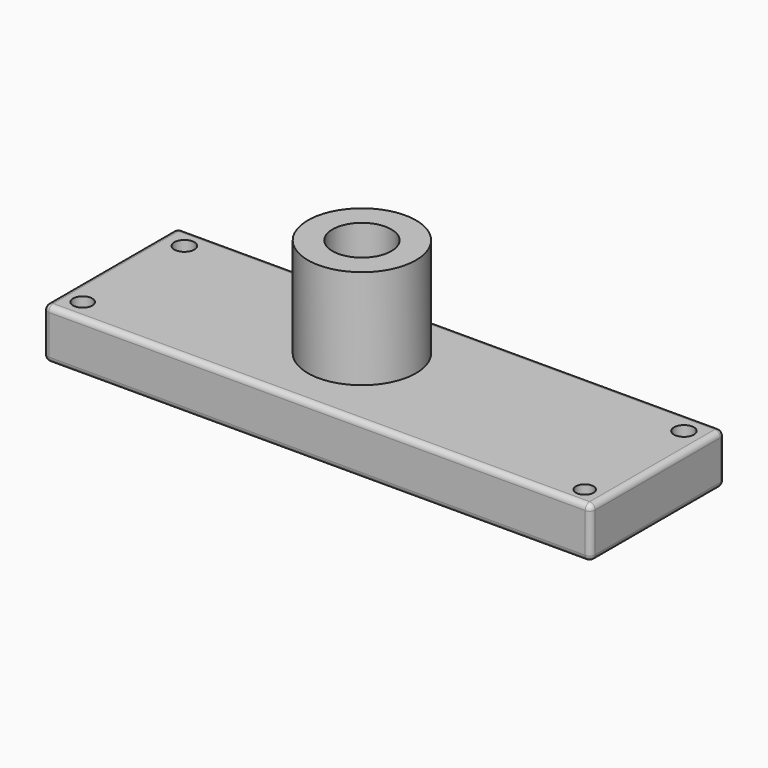
from build123d import *

# Parameters (mm, degrees)
F0_W     = 99.260524
F0_H     = 30.379737
F1_DEPTH = 9.144
F2_R     = 1.016
F3_R     = 1.597357
F3_R_2   = 1.808865
F3_R_3   = 1.82127
F3_R_4   = 1.741221
F4_DEPTH = 9.145
F3_R_5   = 9.801511
F3_R_6   = 5.336949
F5_DEPTH = 18.034


with BuildPart() as f1:
    # F0 (on Top) → F1 (new body)
    with BuildSketch(Plane.XY):
        with Locations((4.963025, -1.203157)):
            Rectangle(F0_W, F0_H)
        with Locations((4.963025, -1.203157)):
            Rectangle(F0_W, F0_H)
    extrude(amount=F1_DEPTH)

    # F2
    f2_edges = [f1.edges().sort_by_distance(p)[0] for p in [
        (-44.667237, -1.203157, 9.144),
        (4.963025, 13.986711, 9.144),
        (4.963025, -16.393026, 9.144),
        (54.593287, -1.203157, 9.144),
        (54.593287, -1.203157, 0),
        (54.593287, 13.986711, 4.572),
        (54.593287, -16.393026, 4.572),
        (4.963025, 13.986711, 0),
        (-44.667237, 13.986711, 4.572),
        (-44.667237, -1.203157, 0),
        (-44.667237, -16.393026, 4.572),
        (4.963025, -16.393026, 0),
    ]]
    fillet(f2_edges, radius=F2_R)

    # F3 (on face) → F4 (cut, through all)
    with BuildSketch(Plane.XY.offset(9.144)):
        with Locations((50.720021, -12.913582)):
            Circle(F3_R)
        with Locations((50.474998, 9.873613)):
            Circle(F3_R_2)
        with Locations((-40.183738, 9.996125)):
            Circle(F3_R_3)
        with Locations((-40.673785, -12.423535)):
            Circle(F3_R_4)
    extrude(amount=-F4_DEPTH, mode=Mode.SUBTRACT)

    # F3 (on face) → F5 (join)
    with BuildSketch(Plane.XY.offset(9.144)):
        Circle(F3_R_5)
        Circle(F3_R_6, mode=Mode.SUBTRACT)
    extrude(amount=F5_DEPTH)


solid = f1.part
